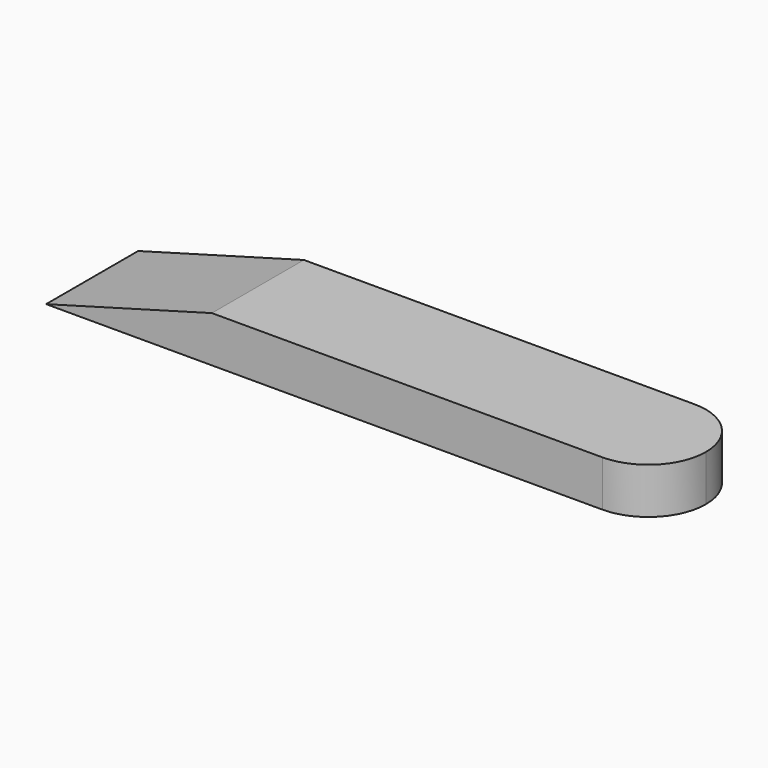
from build123d import *

# Parameters (mm, degrees)
F0_W     = 40
F0_H     = 7.5
F1_DEPTH = 3
F3_DEPTH = 10
F5_DEPTH = 3


with BuildPart() as f1:
    # F0 (on Top) → F1 (new body)
    with BuildSketch(Plane.XY):
        with Locations((-20, -3.75)):
            Rectangle(F0_W, F0_H)
    extrude(amount=F1_DEPTH)

    # F2 (on face) → F3 (cut)
    with BuildSketch(Plane.XZ.offset(7.5)):
        Polygon((-40, 3), (-40, 0), (-29.1941203177, 3), align=None)
    extrude(amount=-F3_DEPTH, mode=Mode.SUBTRACT)

    # F4 (on face) → F5 (cut)
    with BuildSketch(Plane.XY.offset(3)):
        with BuildLine():
            ThreePointArc((-3.75, 0), (-1.0983495706, -1.0983495706), (0, -3.75))
            Line((0, -3.75), (0, 0))
            Line((0, 0), (-3.75, 0))
        make_face()
        with BuildLine():
            Line((0, -7.5), (0, -3.75))
            ThreePointArc((0, -3.75), (-1.0983495706, -6.4016504294), (-3.75, -7.5))
            Line((-3.75, -7.5), (0, -7.5))
        make_face()
    extrude(amount=-F5_DEPTH, mode=Mode.SUBTRACT)


solid = f1.part
